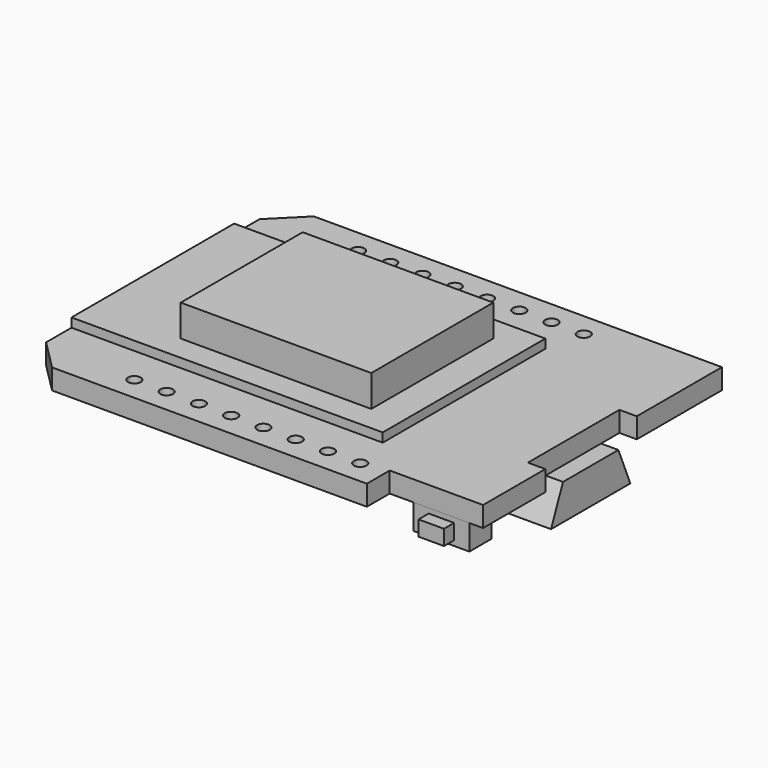
from build123d import *

# Parameters (mm, degrees)
CYLINDER_R     = 0.5
CYLINDER_DEPTH = 10
ARRAY_X_COUNT  = 8
ARRAY_X_PITCH  = 2.54
ARRAY_Y_COUNT  = 2
ARRAY_Y_PITCH  = 22
PAD_DEPTH      = 1.6
BOX005_W       = 4
BOX005_H       = 10
BOX005_DEPTH   = 2
BOX004_W       = 1
BOX004_H       = 1.5
BOX004_DEPTH   = 1.9
BOX003_W       = 2
BOX003_H       = 1
BOX003_DEPTH   = 1.2
BOX002_W       = 4.4
BOX002_H       = 2.2
BOX002_DEPTH   = 2
BOX_W          = 24.5
BOX_H          = 16
BOX_DEPTH      = 1.31
BOX001_W       = 15
BOX001_H       = 12
BOX001_DEPTH   = 3.8
PAD001_DEPTH   = 5.62


with BuildPart() as array:
    # Cylinder → Cylinder (new body)
    with BuildSketch(Plane.XY.offset(-3)):
        Circle(CYLINDER_R)
    extrude(amount=CYLINDER_DEPTH)

    # Array X: Array ×8


with BuildPart() as array_1:
    add(array.part)
    with Locations(*[(i * ARRAY_X_PITCH, 0, 0) for i in range(1, ARRAY_X_COUNT)]):
        add(array.part)

    # Array Y: Array ×2


with BuildPart() as array_2:
    add(array_1.part)
    with Locations(*[(0, i * ARRAY_Y_PITCH, 0) for i in range(1, ARRAY_Y_COUNT)]):
        add(array_1.part)


with BuildPart() as array_3:
    # Array placement: moved
    add(array_2.part.moved(Location((7.35, -11, 0))))


with BuildPart() as placa_base_con_agujeros:
    # Sketch → Pad (new body)
    with BuildSketch(Plane.XY):
        Polygon((34.5, 12.875), (2.375, 12.875), (0, 10.5), (0, -10.5), (2.375, -12.875), (27.15, -12.875), (27.15, -10.625), (34.5, -10.625), (34.5, -4.5), (33.13, -4.5), (33.13, 4.5), (34.5, 4.5), align=None)
    extrude(amount=PAD_DEPTH)

    # Cut: cut Array
    add(array_3.part, mode=Mode.SUBTRACT)


with BuildPart() as cubo002:
    # Box005 → Box005 (new body)
    with BuildSketch(Plane(origin=(22, -5.5, -1.45), x_dir=(1, 0, 0), z_dir=(0, 0, 1))):
        with Locations((2, 5)):
            Rectangle(BOX005_W, BOX005_H)
    extrude(amount=BOX005_DEPTH)


with BuildPart() as led:
    # Box004 → Box004 (new body)
    with BuildSketch(Plane(origin=(5.5, 6, 1), x_dir=(1, 0, 0), z_dir=(0, 0, 1))):
        with Locations((0.5, 0.75)):
            Rectangle(BOX004_W, BOX004_H)
    extrude(amount=BOX004_DEPTH)


with BuildPart() as cubo001:
    # Box003 → Box003 (new body)
    with BuildSketch(Plane(origin=(30.2, -11.6, -1.6), x_dir=(1, 0, 0), z_dir=(0, 0, 1))):
        with Locations((1, 0.5)):
            Rectangle(BOX003_W, BOX003_H)
    extrude(amount=BOX003_DEPTH)


with BuildPart() as cubo:
    # Box002 → Box002 (new body)
    with BuildSketch(Plane(origin=(29, -10.6, -2), x_dir=(1, 0, 0), z_dir=(0, 0, 1))):
        with Locations((2.2, 1.1)):
            Rectangle(BOX002_W, BOX002_H)
    extrude(amount=BOX002_DEPTH)


with BuildPart() as esp12f:
    # Box → Box (new body)
    with BuildSketch(Plane(origin=(0, -8, 1), x_dir=(1, 0, 0), z_dir=(0, 0, 1))):
        with Locations((12.25, 8)):
            Rectangle(BOX_W, BOX_H)
    extrude(amount=BOX_DEPTH)


with BuildPart() as obj1:
    # Box001 → Box001 (new body)
    with BuildSketch(Plane(origin=(7, -6, 1), x_dir=(1, 0, 0), z_dir=(0, 0, 1))):
        with Locations((7.5, 6)):
            Rectangle(BOX001_W, BOX001_H)
    extrude(amount=BOX001_DEPTH)


with BuildPart() as obj2:
    # Sketch001 → Pad001 (new body)
    with BuildSketch(Plane.YZ):
        Polygon((-2.725, -0.021991), (2.725, -0.021991), (3.9, -2.821991), (-3.9, -2.821991), align=None)
    extrude(amount=PAD001_DEPTH)


with BuildPart() as obj2_1:
    # Body001 placement: moved
    add(obj2.part.moved(Location((28.85, 0, 0))))

    # Fusion: union placa base con agujeros, Cubo002, led, Cubo001, Cubo, esp12F, obj1
    add(placa_base_con_agujeros.part)
    add(cubo002.part)
    add(led.part)
    add(cubo001.part)
    add(cubo.part)
    add(esp12f.part)
    add(obj1.part)


with BuildPart() as obj2_2:
    # Fusion placement: moved
    add(obj2_1.part.moved(Location((14, 0, 5))))


solid = obj2_2.part
